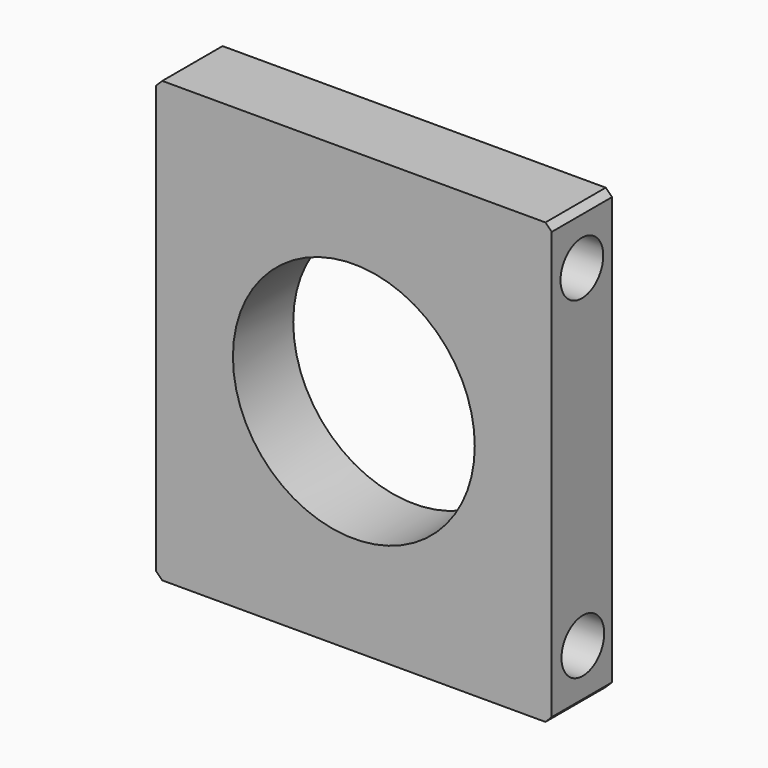
from build123d import *

# Parameters (mm, degrees)
F0_W     = 63
F0_H     = 70
F1_DEPTH = 12
F2_R     = 19.25
F3_DEPTH = 25
F4_R     = 4.25
F5_DEPTH = 63.001
F6_SIZE  = 1


with BuildPart() as f1:
    # F0 (on Front) → F1 (new body)
    with BuildSketch(Plane.XZ):
        with Locations((31.5, 35)):
            Rectangle(F0_W, F0_H)
    extrude(amount=F1_DEPTH)

    # F2 (on face) → F3 (cut)
    with BuildSketch(Plane.XZ.offset(12)):
        with Locations((31.5, 35)):
            Circle(F2_R)
    extrude(amount=-F3_DEPTH, mode=Mode.SUBTRACT)

    # F4 (on face) → F5 (cut, through all)
    with BuildSketch(Plane(origin=(0, 0, 0), x_dir=(0, -1, 0), z_dir=(-1, 0, 0))):
        with Locations((6, 61.5)):
            Circle(F4_R)
        with Locations((5.807274, 8.50035)):
            Circle(F4_R)
    extrude(amount=-F5_DEPTH, mode=Mode.SUBTRACT)

    # F6
    f6_edges = [f1.edges().sort_by_distance(p)[0] for p in [
        (63, -6, 70),
        (63, -6, 0),
        (0, -6, 0),
        (0, -6, 70),
    ]]
    chamfer(f6_edges, length=F6_SIZE)


solid = f1.part
